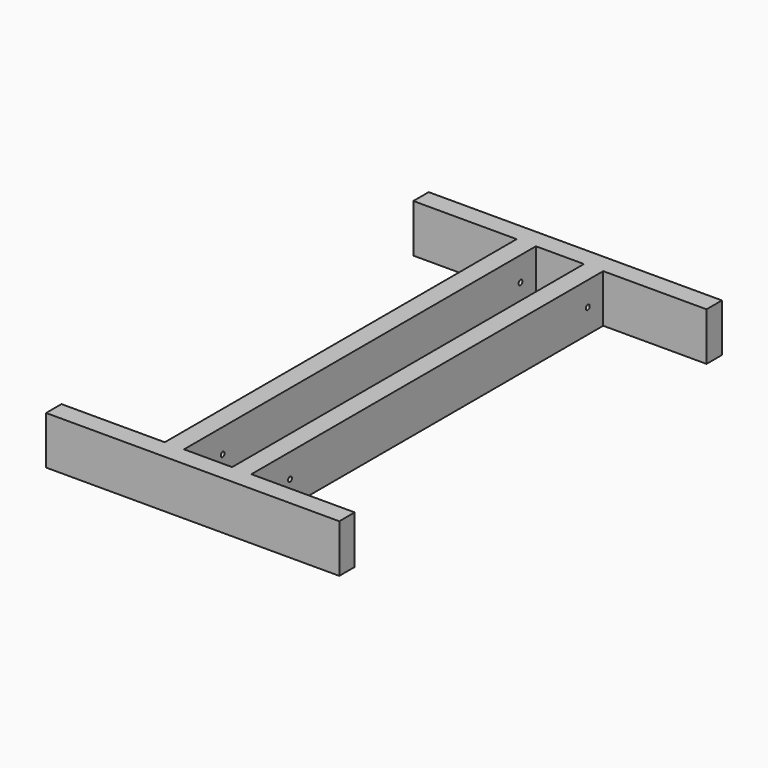
from build123d import *

# Parameters (mm, degrees)
F0_W     = 100
F0_H     = 914.4
F1_DEPTH = 100
F3_D     = 10
F4_D     = 10


with BuildPart() as f1:
    # F0 (on Top) → F1 (new body)
    with BuildSketch(Plane.XY):
        Polygon((0, 40), (0, 0), (214.8, 0), (214.8, -914.4), (0, -914.4), (0, -954.4), (609.6, -954.4), (609.6, -914.4), (394.8, -914.4), (394.8, 0), (609.6, 0), (609.6, 40), align=None)
        with Locations((304.8, -457.2)):
            Rectangle(F0_W, F0_H, mode=Mode.SUBTRACT)
    extrude(amount=F1_DEPTH)

    # F3 (through all)
    with Locations(Plane.YZ.offset(394.8)):
        with Locations((-40, 50)):
            Hole(F3_D / 2)

    # F4 (through all)
    with Locations(Plane.YZ.offset(394.8)):
        with Locations((-813.965738, 50)):
            Hole(F4_D / 2)


solid = f1.part
